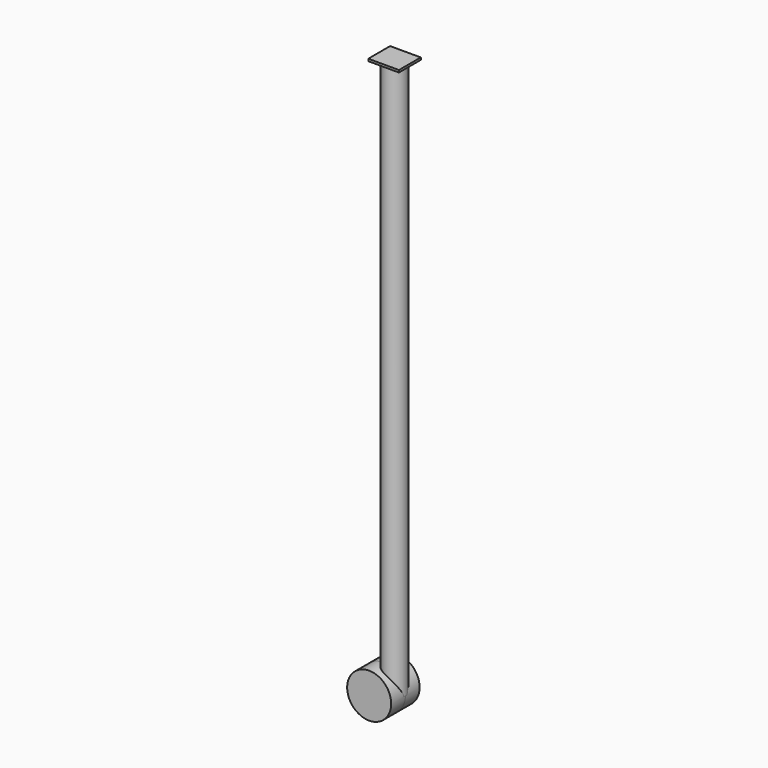
from build123d import *

# Parameters (mm, degrees)
F0_R     = 12.7
F1_DEPTH = 635
F2_R     = 25.153949
F3_DEPTH = 20.32
F5_W     = 35.0695
F5_H     = 31.220594
F6_DEPTH = 2.54


with BuildPart() as f1:
    # F0 (on Top) → F1 (new body)
    with BuildSketch(Plane.XY):
        Circle(F0_R)
    extrude(amount=F1_DEPTH)

    # F2 (on Front) → F3 (join)
    with BuildSketch(Plane.XZ):
        with Locations((-12.71527, 0)):
            Circle(F2_R)
    extrude(amount=F3_DEPTH)

    # F4: F1 across plane


with BuildPart() as f1_1:
    add(f1.part)
    add(f1.part.mirror(Plane.XZ))

    # F5 (on face) → F6 (join)
    with BuildSketch(Plane.XY.offset(635)):
        Rectangle(F5_W, F5_H)
    extrude(amount=F6_DEPTH)


solid = f1_1.part
